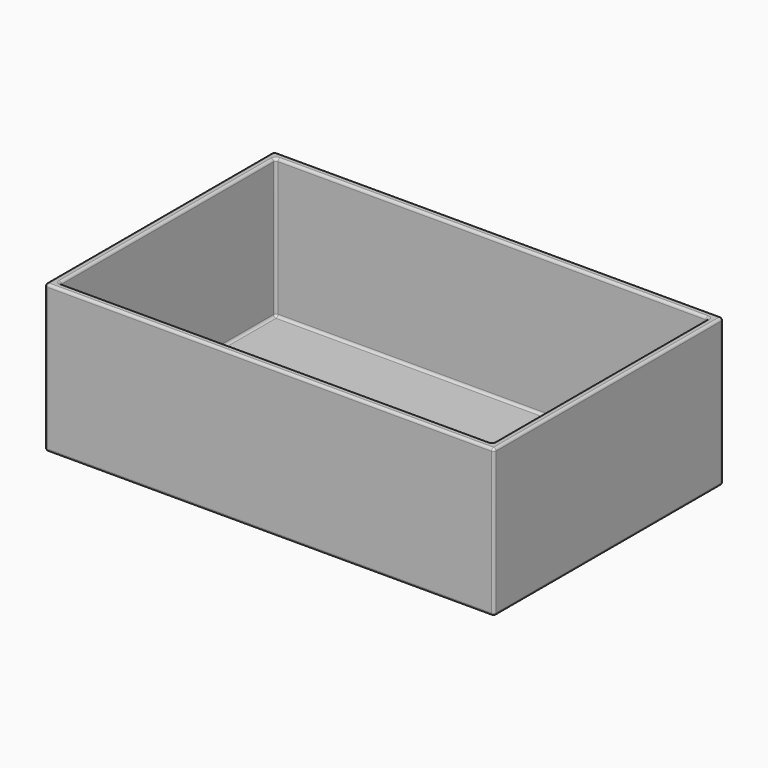
from build123d import *

# Parameters (mm, degrees)
F0_W     = 524.05
F0_H     = 334.05
F0_W_2   = 505
F0_H_2   = 315
F1_DEPTH = 172.025
F2_DEPTH = 9.525
F3_R     = 3


with BuildPart() as f1:
    # F0 (on Top) → F1 (new body)
    with BuildSketch(Plane.XY):
        with Locations((48.210962, 70.14254)):
            Rectangle(F0_W, F0_H)
        with Locations((48.210962, 70.14254)):
            Rectangle(F0_W_2, F0_H_2, mode=Mode.SUBTRACT)
    extrude(amount=F1_DEPTH)

    # F0 (on Top) → F2 (join)
    with BuildSketch(Plane.XY):
        with Locations((48.210962, 70.14254)):
            Rectangle(F0_W_2, F0_H_2)
    extrude(amount=F2_DEPTH)

    # F3
    f3_edges = [f1.edges().sort_by_distance(p)[0] for p in [
        (-213.814038, -96.88246, 86.0125),
        (310.235962, -96.88246, 86.0125),
        (48.210962, -96.88246, 0),
        (48.210962, -96.88246, 172.025),
        (310.235962, 237.16754, 86.0125),
        (310.235962, 70.14254, 0),
        (310.235962, 70.14254, 172.025),
        (-213.814038, 237.16754, 86.0125),
        (48.210962, 237.16754, 0),
        (48.210962, 237.16754, 172.025),
        (-213.814038, 70.14254, 0),
        (-213.814038, 70.14254, 172.025),
        (300.710962, 70.14254, 172.025),
        (48.210962, -87.35746, 172.025),
        (-204.289038, 70.14254, 172.025),
        (48.210962, 227.64254, 172.025),
        (-204.289038, 70.14254, 9.525),
        (-204.289038, 227.64254, 90.775),
        (-204.289038, -87.35746, 90.775),
        (48.210962, -87.35746, 9.525),
        (300.710962, -87.35746, 90.775),
        (300.710962, 70.14254, 9.525),
        (300.710962, 227.64254, 90.775),
        (48.210962, 227.64254, 9.525),
    ]]
    fillet(f3_edges, radius=F3_R)


solid = f1.part
